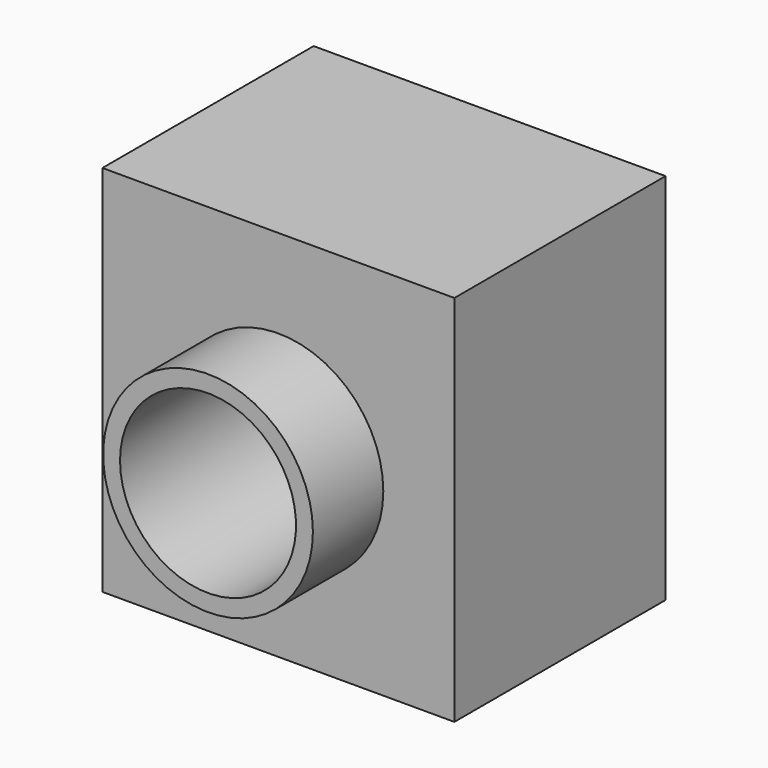
from build123d import *

# Parameters (mm, degrees)
F0_W     = 101.6
F0_H     = 107.734338
F0_R     = 24.735745
F2_DEPTH = 76.2
F1_R     = 30.273775
F3_DEPTH = 101.6
F5_D     = 50.8


with BuildPart() as f2:
    # F0 (on Front) → F2 (new body)
    with BuildSketch(Plane.XZ):
        with Locations((0, 1.91698)):
            Rectangle(F0_W, F0_H)
        Circle(F0_R, mode=Mode.SUBTRACT)
    extrude(amount=F2_DEPTH)

    # F1 (on Front) → F3 (join)
    with BuildSketch(Plane.XZ):
        Circle(F1_R)
    extrude(amount=F3_DEPTH)

    # F5 (through all)
    with Locations(Plane(origin=(0, 0, 0), x_dir=(1, 0, 0), z_dir=(0, 1, 0))):
        with Locations((0, 0)):
            Hole(F5_D / 2)


solid = f2.part
